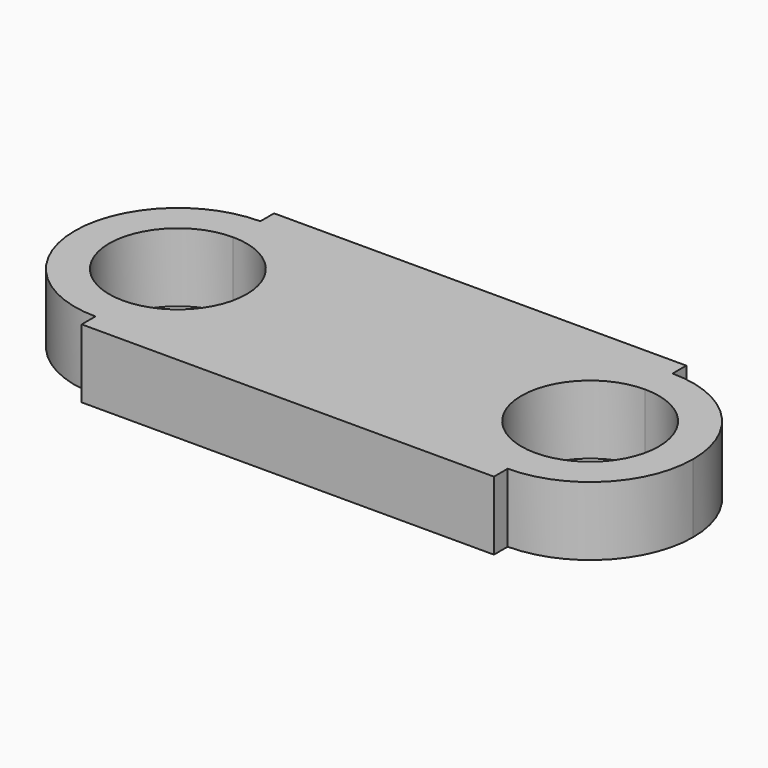
from build123d import *

# Parameters (mm, degrees)
F1_DEPTH = 25.4


with BuildPart() as f1:
    # F0 (on Top) → F1 (new body)
    with BuildSketch(Plane.XY):
        with BuildLine():
            ThreePointArc((-37.5677628088, 2.4403324218), (-48.7269944456, 29.381100785), (-75.6677628088, 40.5403324218))
            Line((-75.6677628088, 40.5403324218), (-75.6677628088, 27.8403324218))
            ThreePointArc((-75.6677628088, 27.8403324218), (-57.7072505666, 20.400844664), (-50.2677628088, 2.4403324218))
            ThreePointArc((-50.2677628088, 2.4403324218), (-57.7072505666, -15.5201798203), (-75.6677628088, -22.9596675782))
            Line((-75.6677628088, -22.9596675782), (-75.6677628088, -35.6596675782))
            ThreePointArc((-75.6677628088, -35.6596675782), (-48.7269944456, -24.5004359414), (-37.5677628088, 2.4403324218))
        make_face()
        with BuildLine():
            Line((76.7322371912, 27.8403324218), (76.7322371912, 40.5403324218))
            ThreePointArc((76.7322371912, 40.5403324218), (38.6322371912, 2.4403324218), (76.7322371912, -35.6596675782))
            Line((76.7322371912, -35.6596675782), (76.7322371912, -22.9596675782))
            ThreePointArc((76.7322371912, -22.9596675782), (51.3322371912, 2.4403324218), (76.7322371912, 27.8403324218))
        make_face()
        with BuildLine():
            Line((76.7322371912, 46.8903324218), (-75.6677628088, 46.8903324218))
            Line((-75.6677628088, 46.8903324218), (-75.6677628088, 40.5403324218))
            ThreePointArc((-75.6677628088, 40.5403324218), (-48.7269944456, 29.381100785), (-37.5677628088, 2.4403324218))
            ThreePointArc((-37.5677628088, 2.4403324218), (-48.7269944456, -24.5004359414), (-75.6677628088, -35.6596675782))
            Line((-75.6677628088, -35.6596675782), (-75.6677628088, -42.0096675782))
            Line((-75.6677628088, -42.0096675782), (76.7322371912, -42.0096675782))
            Line((76.7322371912, -42.0096675782), (76.7322371912, -35.6596675782))
            ThreePointArc((76.7322371912, -35.6596675782), (38.6322371912, 2.4403324218), (76.7322371912, 40.5403324218))
            Line((76.7322371912, 40.5403324218), (76.7322371912, 46.8903324218))
        make_face()
        with BuildLine():
            Line((-75.6677628088, 27.8403324218), (-75.6677628088, 40.5403324218))
            ThreePointArc((-75.6677628088, 40.5403324218), (-113.7677628088, 2.4403324218), (-75.6677628088, -35.6596675782))
            Line((-75.6677628088, -35.6596675782), (-75.6677628088, -22.9596675782))
            ThreePointArc((-75.6677628088, -22.9596675782), (-101.0677628088, 2.4403324218), (-75.6677628088, 27.8403324218))
        make_face()
        with BuildLine():
            ThreePointArc((114.8322371912, 2.4403324218), (103.6730055544, 29.381100785), (76.7322371912, 40.5403324218))
            Line((76.7322371912, 40.5403324218), (76.7322371912, 27.8403324218))
            ThreePointArc((76.7322371912, 27.8403324218), (94.6927494334, 20.400844664), (102.1322371912, 2.4403324218))
            ThreePointArc((102.1322371912, 2.4403324218), (94.6927494334, -15.5201798203), (76.7322371912, -22.9596675782))
            Line((76.7322371912, -22.9596675782), (76.7322371912, -35.6596675782))
            ThreePointArc((76.7322371912, -35.6596675782), (103.6730055544, -24.5004359414), (114.8322371912, 2.4403324218))
        make_face()
    extrude(amount=F1_DEPTH)


solid = f1.part
